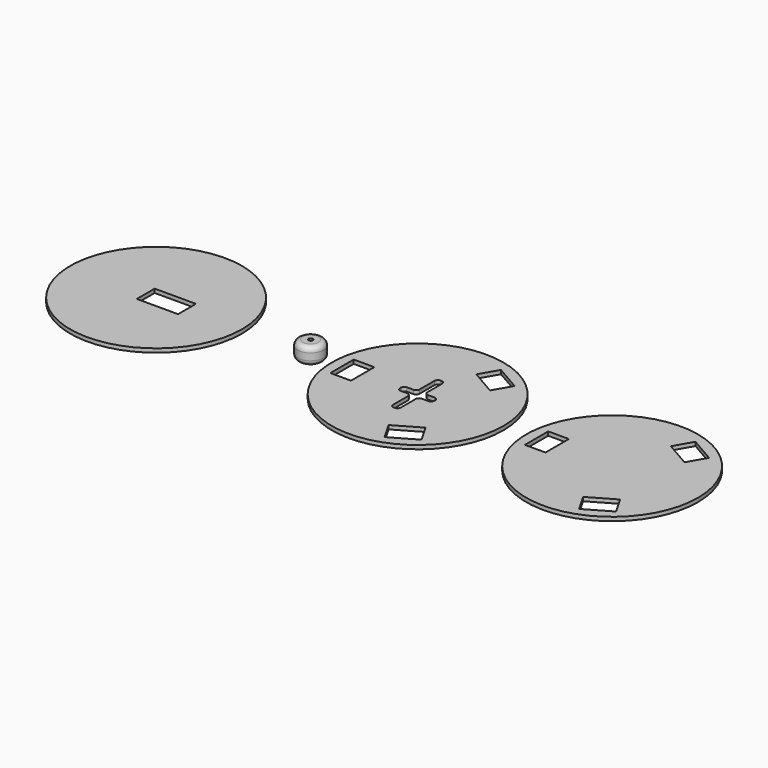
from build123d import *

# Parameters (mm, degrees)
F0_R     = 50
F0_W     = 24
F0_H     = 13
F1_DEPTH = 2.24
F2_R     = 2
F0_R_2   = 7.5
F0_R_3   = 1.25
F3_DEPTH = 10
F4_R     = 3


with BuildPart() as f1:
    # F0 (on Top) → F1 (new body)
    with BuildSketch(Plane.XY):
        with Locations((-152.273851, 0)):
            Circle(F0_R)
        with Locations((-146.273851, 0)):
            Rectangle(F0_W, F0_H, mode=Mode.SUBTRACT)
        Circle(F0_R)
        Polygon((14.638784, -42.355118), (8.638784, -31.962813), (23.361216, -23.462813), (29.361216, -33.855118), align=None, mode=Mode.SUBTRACT)
        Polygon((-44, 8.5), (-32, 8.5), (-32, 7.5), (-32, -8.5), (-44, -8.5), (-44, 7.5), align=None, mode=Mode.SUBTRACT)
        Polygon((2.25, -17), (-2.25, -17), (-2.25, -2.25), (-10, -2.25), (-10, 2.25), (-2.25, 2.25), (-2.25, 17), (2.25, 17), (2.25, 2.25), (10, 2.25), (10, -2.25), (2.25, -2.25), align=None, mode=Mode.SUBTRACT)
        Polygon((29.361216, 33.855118), (23.361216, 23.462813), (8.638784, 31.962813), (14.638784, 42.355118), align=None, mode=Mode.SUBTRACT)
        with Locations((113.232195, 0)):
            Circle(F0_R)
        Polygon((127.870979, -42.355118), (121.870979, -31.962813), (136.593411, -23.462813), (142.593411, -33.855118), align=None, mode=Mode.SUBTRACT)
        Polygon((69.232195, -8.5), (69.232195, 7.5), (69.232195, 8.5), (81.232195, 8.5), (81.232195, 7.5), (81.232195, -8.5), align=None, mode=Mode.SUBTRACT)
        Polygon((136.593411, 23.462813), (121.870979, 31.962813), (127.870979, 42.355118), (142.593411, 33.855118), align=None, mode=Mode.SUBTRACT)
    extrude(amount=F1_DEPTH)

    # F2
    f2_edges = [f1.edges().sort_by_distance(p)[0] for p in [
        (2.25, 17, 1.12),
        (10, 2.25, 1.12),
        (2.25, 2.25, 1.12),
        (2.25, -2.25, 1.12),
        (2.25, -17, 1.12),
        (-2.25, 17, 1.12),
        (-2.25, 2.25, 1.12),
        (-10, 2.25, 1.12),
        (-2.25, -2.25, 1.12),
        (-10, -2.25, 1.12),
        (-2.25, -17, 1.12),
        (10, -2.25, 1.12),
    ]]
    fillet(f2_edges, radius=F2_R)


with BuildPart() as f3:
    # F0 (on Top) → F3 (new body)
    with BuildSketch(Plane.XY):
        with Locations((-62.312644, 0)):
            Circle(F0_R_2)
        with Locations((-62.312644, 0)):
            Circle(F0_R_3, mode=Mode.SUBTRACT)
    extrude(amount=F3_DEPTH)

    # F4
    f4_edges = [f3.edges().sort_by_distance(p)[0] for p in [
        (-69.812644, 0, 10),
        (-69.812644, 0, 0),
    ]]
    fillet(f4_edges, radius=F4_R)


solid = Compound([f1.part, f3.part])
